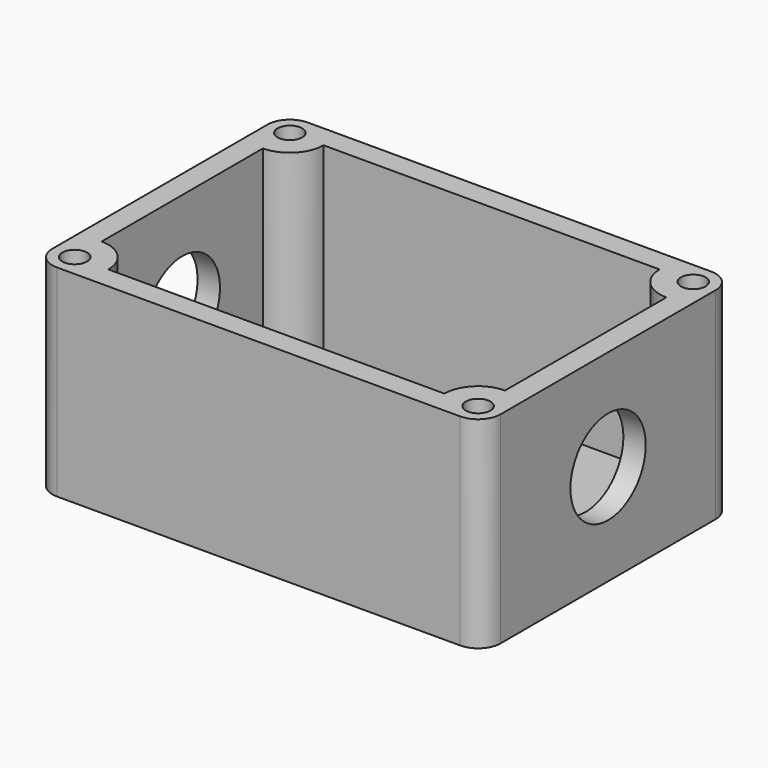
from build123d import *

# Parameters (mm, degrees)
F0_W     = 100
F0_H     = 70
F1_DEPTH = 45
F2_T     = -5
F4_DEPTH = 40
F6_D     = 5.5
F7_R     = 10.5
F8_DEPTH = 100.001
F10_R    = 5


with BuildPart() as f1:
    # F0 (on Top) → F1 (new body)
    with BuildSketch(Plane.XY):
        with Locations((-0.4376240075, -0.4940965772)):
            Rectangle(F0_W, F0_H)
    extrude(amount=F1_DEPTH)

    # F2
    f2_openings = [f1.faces().sort_by_distance(p)[0] for p in [
        (-0.437624, -0.494097, 45),
    ]]
    offset(amount=F2_T, openings=f2_openings)

    # F3 (on face) → F4 (join, through all)
    with BuildSketch(Plane.XY.offset(5)):
        with BuildLine():
            ThreePointArc((-45.4376240075, 22.0059034228), (-40.1343231486, 24.2026025639), (-37.9376240075, 29.5059034228))
            Line((-37.9376240075, 29.5059034228), (-45.4376240075, 29.5059034228))
            Line((-45.4376240075, 29.5059034228), (-45.4376240075, 22.0059034228))
        make_face()
        with BuildLine():
            ThreePointArc((-37.9376240075, -30.4940965772), (-40.1343231486, -25.1907957183), (-45.4376240075, -22.9940965772))
            Line((-45.4376240075, -22.9940965772), (-45.4376240075, -30.4940965772))
            Line((-45.4376240075, -30.4940965772), (-37.9376240075, -30.4940965772))
        make_face()
        with BuildLine():
            Line((44.5623759925, 29.5059034228), (37.0623759925, 29.5059034228))
            ThreePointArc((37.0623759925, 29.5059034228), (39.2590751336, 24.2026025639), (44.5623759925, 22.0059034228))
            Line((44.5623759925, 22.0059034228), (44.5623759925, 29.5059034228))
        make_face()
        with BuildLine():
            Line((44.5623759925, -30.4940965772), (44.5623759925, -22.9940965772))
            ThreePointArc((44.5623759925, -22.9940965772), (39.2590751336, -25.1907957183), (37.0623759925, -30.4940965772))
            Line((37.0623759925, -30.4940965772), (44.5623759925, -30.4940965772))
        make_face()
    extrude(amount=F4_DEPTH)

    # F6 (through all)
    with Locations(Plane.XY.offset(45)):
        with Locations((44.5623759925, 29.5059034228), (44.5623759925, -30.4940965772), (-45.4376240075, -30.4940965772), (-45.4376240075, 29.5059034228)):
            Hole(F6_D / 2)

    # F7 (on face) → F8 (cut, through all)
    with BuildSketch(Plane(origin=(-50.4376240075, 0, 0), x_dir=(0, -1, 0), z_dir=(-1, 0, 0))):
        with Locations((0.4940965772, 22.5)):
            Circle(F7_R)
    extrude(amount=-F8_DEPTH, mode=Mode.SUBTRACT)

    # F10
    f10_edges = [f1.edges().sort_by_distance(p)[0] for p in [
        (-50.437624, 34.505903, 22.5),
        (49.562376, 34.505903, 22.5),
        (-50.437624, -35.494097, 22.5),
        (49.562376, -35.494097, 22.5),
    ]]
    fillet(f10_edges, radius=F10_R)


solid = f1.part
